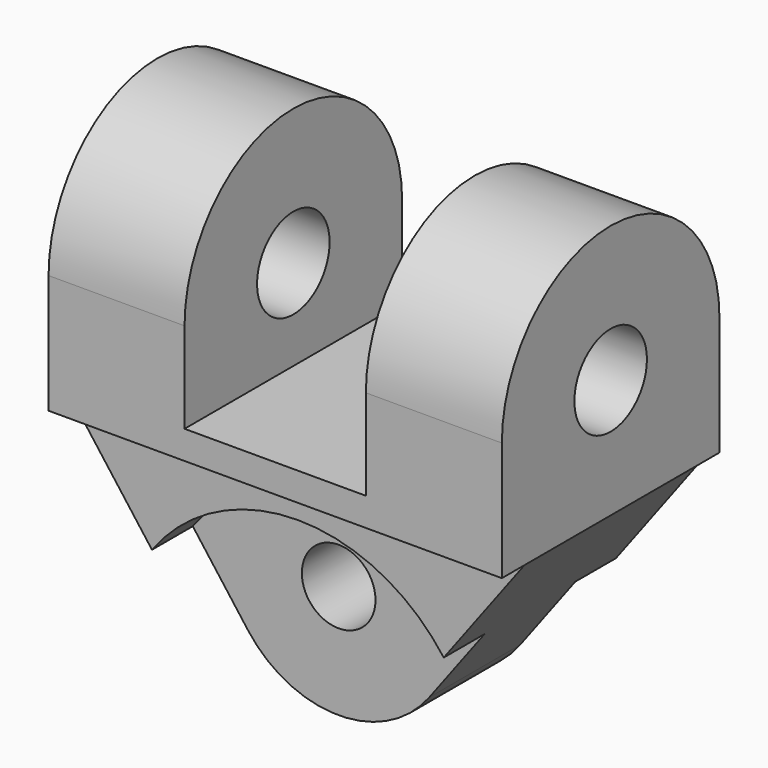
from build123d import *

# Parameters (mm, degrees)
SKETCH001_W     = 56.994616
SKETCH001_H     = 47.06926
PAD001_DEPTH    = 16
SKETCH_R        = 8
PAD_DEPTH       = 40
SKETCH002_R     = 6.5
PAD002_DEPTH    = 19
POCKET_DEPTH    = 9
POCKET001_DEPTH = 9


with BuildPart() as pad001:
    # Sketch001 → Pad001 (new body, symmetric)
    with BuildSketch(Plane.YZ):
        with Locations((0.044112, 66.53463)):
            Rectangle(SKETCH001_W, SKETCH001_H)
    extrude(amount=PAD001_DEPTH, both=True)


with BuildPart() as cut:
    # Sketch → Pad (new body, symmetric)
    with BuildSketch(Plane.YZ):
        with BuildLine():
            Line((-24, 38), (24, 38))
            Line((24, 38), (24, 59.000043))
            ThreePointArc((24, 59.000043), (-2.1e-05, 83), (-24, 59))
            Line((-24, 38), (-24, 59))
        make_face()
        with Locations((0, 59)):
            Circle(SKETCH_R, mode=Mode.SUBTRACT)
    extrude(amount=PAD_DEPTH, both=True)

    # Cut: cut Pad001
    add(pad001.part, mode=Mode.SUBTRACT)


with BuildPart() as pocket001:
    # Sketch002 → Pad002 (new body, symmetric)
    with BuildSketch(Plane.XZ):
        with BuildLine():
            Line((-40, 38), (40, 38))
            Line((40, 38), (16.000031, 6.000041))
            ThreePointArc((-16.000031, 6.000041), (0, -2), (16.000031, 6.000041))
            Line((-40, 38), (-16.000031, 6.000041))
        make_face()
        with Locations((0, 18)):
            Circle(SKETCH002_R, mode=Mode.SUBTRACT)
    extrude(amount=PAD002_DEPTH, both=True)

    # Sketch003 → Pocket (cut)
    with BuildSketch(Plane.XZ.offset(19)):
        with BuildLine():
            ThreePointArc((30.074504, -10.932713), (0, 32), (-30.074504, -10.932713))
            Line((-30.074504, -10.932713), (30.074504, -10.932713))
        make_face()
    extrude(amount=-POCKET_DEPTH, mode=Mode.SUBTRACT)

    # Sketch004 → Pocket001 (cut)
    with BuildSketch(Plane(origin=(0, 19, 0), x_dir=(1, 0, 0), z_dir=(0, 1, 0))):
        with BuildLine():
            ThreePointArc((-29.605592, 12.145325), (-2.707603, -31.885246), (31.229606, 6.979376))
            Line((31.229606, 6.979376), (-29.605592, 12.145325))
        make_face()
    extrude(amount=-POCKET001_DEPTH, mode=Mode.SUBTRACT)


solid = Compound([cut.part, pocket001.part])
